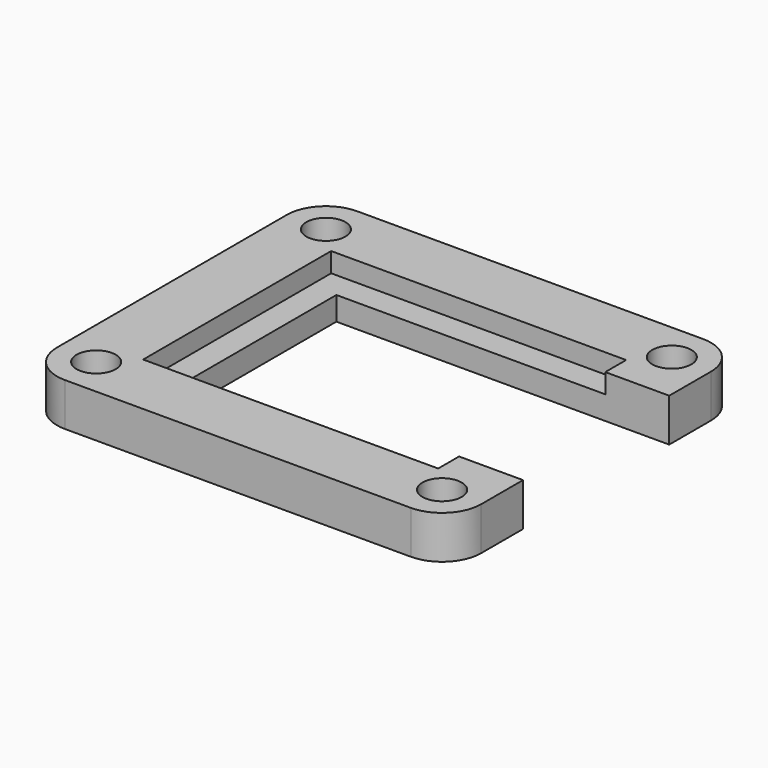
from build123d import *

# Parameters (mm, degrees)
F1_DEPTH = 1.8
F3_DEPTH = 1.5
F4_R     = 1.5
F5_DEPTH = 3.3
F6_R     = 3


with BuildPart() as f1:
    # F0 (on Top) → F1 (new body)
    with BuildSketch(Plane.XY):
        Polygon((18.5, 14), (-14, 14), (-14, -14), (18.5, -14), (18.5, -7), (-7, -7), (-7, 7), (18.5, 7), align=None)
    extrude(amount=F1_DEPTH)

    # F2 (on face) → F3 (join)
    with BuildSketch(Plane.XY.offset(1.8)):
        Polygon((-9, -9), (-9, 9), (13.6, 9), (13.6, 7), (18.5, 7), (18.5, 14), (-14, 14), (-14, -14), (18.5, -14), (18.5, -7), (13.6, -7), (13.6, -9), align=None)
    extrude(amount=F3_DEPTH)

    # F4 (on face) → F5 (cut, through all)
    with BuildSketch(Plane.XY.offset(3.3)):
        with Locations((-11, 11)):
            Circle(F4_R)
        with Locations((15.5, 11)):
            Circle(F4_R)
        with Locations((15.5, -11)):
            Circle(F4_R)
        with Locations((-11, -11)):
            Circle(F4_R)
    extrude(amount=-F5_DEPTH, mode=Mode.SUBTRACT)

    # F6
    f6_edges = [f1.edges().sort_by_distance(p)[0] for p in [
        (-14, -14, 1.65),
        (18.5, -14, 1.65),
        (18.5, 14, 1.65),
        (-14, 14, 1.65),
    ]]
    fillet(f6_edges, radius=F6_R)


solid = f1.part
